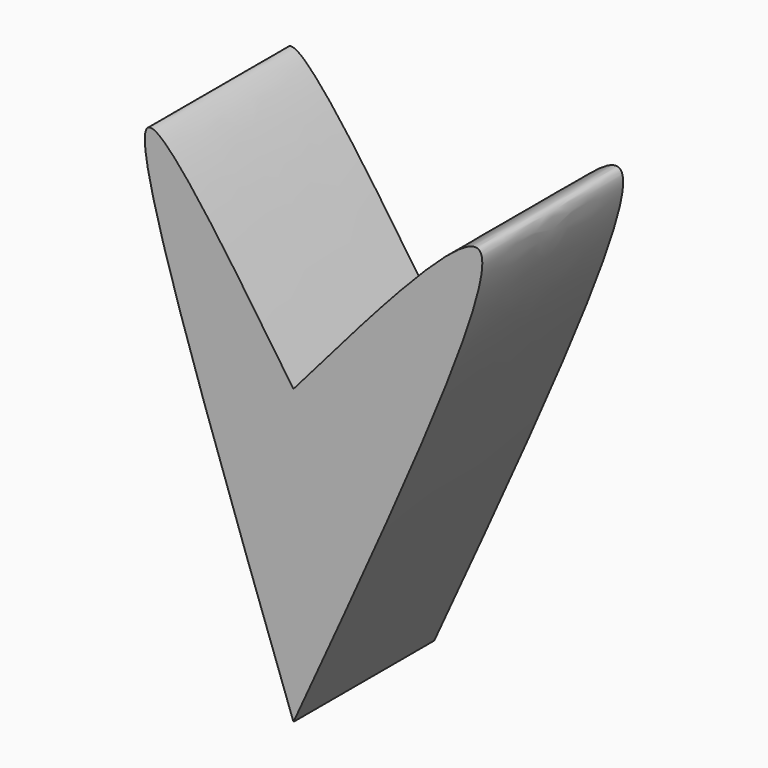
from build123d import *

# Parameters (mm, degrees)
F1_DEPTH = 25.4


with BuildPart() as f1:
    # F0 (on Front) → F1 (new body)
    with BuildSketch(Plane.XZ):
        with BuildLine():
            add(Edge.make_bspline(
                [(0, 0), (12.0863140201, 14.0443843027), (41.1025667835, 47.7614798668), (15.1451929968, -9.1118326802), (0, -42.2953628004)],
                knots=[0, 0, 0, 0, 0.4165360055, 1, 1, 1, 1], degree=3))
            add(Edge.make_bspline(
                [(0, 0), (-9.3608583836, 13.7833461807), (-32.3885544074, 47.690354815), (-12.0630805269, -8.7802838558), (0, -42.2953628004)],
                knots=[0, 0, 0, 0, 0.4065043404, 1, 1, 1, 1], degree=3))
        make_face()
    extrude(amount=F1_DEPTH)


solid = f1.part
